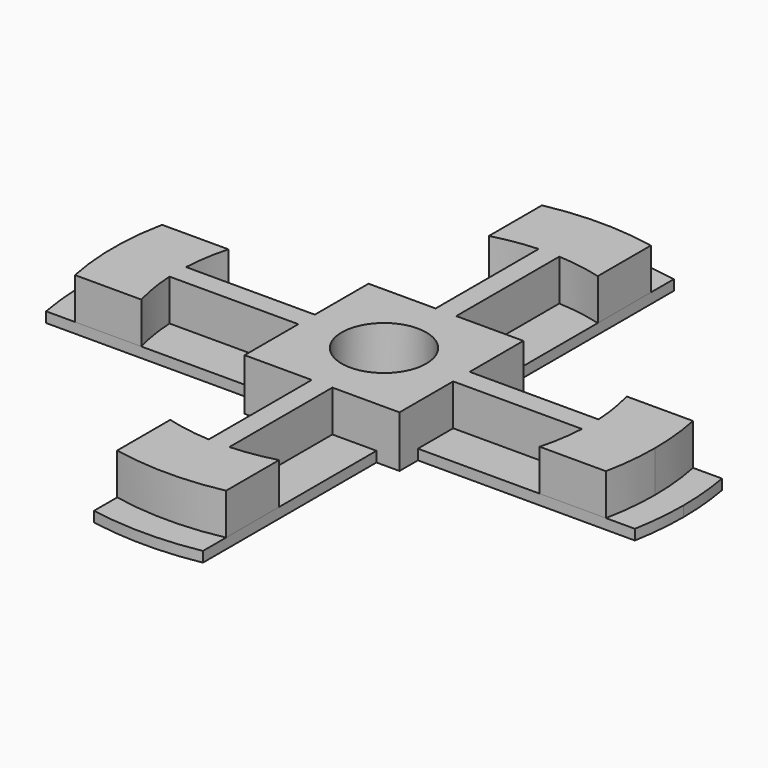
from build123d import *

# Parameters (mm, degrees)
F0_R     = 4.1
F0_W     = 2.2272727273
F0_H     = 2.2272727273
F1_DEPTH = 1
F2_DEPTH = 4


with BuildPart() as f1:
    # F0 (on Top) → F1 (new body)
    with BuildSketch(Plane.XY):
        with BuildLine():
            Line((5.2727272727, 19.292442746), (5.2727272727, 25.7149926523))
            ThreePointArc((5.2727272727, 25.7149926523), (0, 26.25), (-5.2727272727, 25.7149926523))
            Line((-5.2727272727, 25.7149926523), (-5.2727272727, 19.292442746))
            ThreePointArc((-5.2727272727, 19.292442746), (-3.1548760073, 19.7496014486), (-1, 19.9749843554))
            ThreePointArc((-1, 19.9749843554), (0, 20), (1, 19.9749843554))
            ThreePointArc((1, 19.9749843554), (3.1548760073, 19.7496014486), (5.2727272727, 19.292442746))
        make_face()
        with BuildLine():
            ThreePointArc((-25.7149926523, -5.2727272727), (-26.25, 0), (-25.7149926523, 5.2727272727))
            Line((-25.7149926523, 5.2727272727), (-28.516632815, 5.2727272727))
            ThreePointArc((-28.516632815, 5.2727272727), (-29, 0), (-28.516632815, -5.2727272727))
            Line((-28.516632815, -5.2727272727), (-25.7149926523, -5.2727272727))
        make_face()
        with BuildLine():
            ThreePointArc((-5.2727272727, 25.7149926523), (0, 26.25), (5.2727272727, 25.7149926523))
            Line((5.2727272727, 25.7149926523), (5.2727272727, 28.516632815))
            ThreePointArc((5.2727272727, 28.516632815), (0, 29), (-5.2727272727, 28.516632815))
            Line((-5.2727272727, 28.516632815), (-5.2727272727, 25.7149926523))
        make_face()
        with BuildLine():
            ThreePointArc((25.7149926523, 5.2727272727), (26.1159056623, 2.6499002696), (26.25, 0))
            ThreePointArc((26.25, 0), (26.1159056623, -2.6499002696), (25.7149926523, -5.2727272727))
            Line((25.7149926523, -5.2727272727), (28.516632815, -5.2727272727))
            ThreePointArc((28.516632815, -5.2727272727), (28.8789053778, -2.6474183995), (29, 0))
            ThreePointArc((29, 0), (28.8789053778, 2.6474183995), (28.516632815, 5.2727272727))
            Line((28.516632815, 5.2727272727), (25.7149926523, 5.2727272727))
        make_face()
        with BuildLine():
            Line((5.2727272727, -28.516632815), (5.2727272727, -25.7149926523))
            ThreePointArc((5.2727272727, -25.7149926523), (0, -26.25), (-5.2727272727, -25.7149926523))
            Line((-5.2727272727, -25.7149926523), (-5.2727272727, -28.516632815))
            ThreePointArc((-5.2727272727, -28.516632815), (0, -29), (5.2727272727, -28.516632815))
        make_face()
        with BuildLine():
            Line((-7.5, 5.2727272727), (-19.292442746, 5.2727272727))
            ThreePointArc((-19.292442746, 5.2727272727), (-19.7496014486, 3.1548760073), (-19.9749843554, 1))
            Line((-19.9749843554, 1), (-7.5, 1))
            Line((-7.5, 1), (-7.5, 5.2727272727))
        make_face()
        Polygon((7.5, 1), (7.5, 5.2727272727), (5.2727272727, 5.2727272727), (5.2727272727, 7.5), (1, 7.5), (-1, 7.5), (-5.2727272727, 7.5), (-5.2727272727, 5.2727272727), (-7.5, 5.2727272727), (-7.5, 1), (-7.5, -1), (-7.5, -5.2727272727), (-5.2727272727, -5.2727272727), (-5.2727272727, -7.5), (-1, -7.5), (1, -7.5), (5.2727272727, -7.5), (5.2727272727, -5.2727272727), (7.5, -5.2727272727), (7.5, -1), align=None)
        Circle(F0_R, mode=Mode.SUBTRACT)
        with BuildLine():
            ThreePointArc((-1, 19.9749843554), (-3.1548760073, 19.7496014486), (-5.2727272727, 19.292442746))
            Line((-5.2727272727, 19.292442746), (-5.2727272727, 7.5))
            Line((-5.2727272727, 7.5), (-1, 7.5))
            Line((-1, 7.5), (-1, 19.9749843554))
        make_face()
        with BuildLine():
            ThreePointArc((19.9749843554, 1), (19.7496014486, 3.1548760073), (19.292442746, 5.2727272727))
            Line((19.292442746, 5.2727272727), (7.5, 5.2727272727))
            Line((7.5, 5.2727272727), (7.5, 1))
            Line((7.5, 1), (19.9749843554, 1))
        make_face()
        with BuildLine():
            ThreePointArc((25.7149926523, -5.2727272727), (26.1159056623, -2.6499002696), (26.25, 0))
            ThreePointArc((26.25, 0), (26.1159056623, 2.6499002696), (25.7149926523, 5.2727272727))
            Line((25.7149926523, 5.2727272727), (19.292442746, 5.2727272727))
            ThreePointArc((19.292442746, 5.2727272727), (19.7496014486, 3.1548760073), (19.9749843554, 1))
            ThreePointArc((19.9749843554, 1), (19.9937451108, 0.5001564212), (20, 0))
            ThreePointArc((20, 0), (19.9937451108, -0.5001564212), (19.9749843554, -1))
            ThreePointArc((19.9749843554, -1), (19.7496014486, -3.1548760073), (19.292442746, -5.2727272727))
            Line((19.292442746, -5.2727272727), (25.7149926523, -5.2727272727))
        make_face()
        with BuildLine():
            Line((-5.2727272727, -7.5), (-5.2727272727, -19.292442746))
            ThreePointArc((-5.2727272727, -19.292442746), (-3.1548760073, -19.7496014486), (-1, -19.9749843554))
            Line((-1, -19.9749843554), (-1, -7.5))
            Line((-1, -7.5), (-5.2727272727, -7.5))
        make_face()
        with BuildLine():
            ThreePointArc((-5.2727272727, -25.7149926523), (0, -26.25), (5.2727272727, -25.7149926523))
            Line((5.2727272727, -25.7149926523), (5.2727272727, -19.292442746))
            ThreePointArc((5.2727272727, -19.292442746), (3.1548760073, -19.7496014486), (1, -19.9749843554))
            ThreePointArc((1, -19.9749843554), (0, -20), (-1, -19.9749843554))
            ThreePointArc((-1, -19.9749843554), (-3.1548760073, -19.7496014486), (-5.2727272727, -19.292442746))
            Line((-5.2727272727, -19.292442746), (-5.2727272727, -25.7149926523))
        make_face()
        with BuildLine():
            Line((-19.292442746, 5.2727272727), (-25.7149926523, 5.2727272727))
            ThreePointArc((-25.7149926523, 5.2727272727), (-26.25, 0), (-25.7149926523, -5.2727272727))
            Line((-25.7149926523, -5.2727272727), (-19.292442746, -5.2727272727))
            ThreePointArc((-19.292442746, -5.2727272727), (-19.7496014486, -3.1548760073), (-19.9749843554, -1))
            ThreePointArc((-19.9749843554, -1), (-20, 0), (-19.9749843554, 1))
            ThreePointArc((-19.9749843554, 1), (-19.7496014486, 3.1548760073), (-19.292442746, 5.2727272727))
        make_face()
        with Locations((-6.3863636364, 6.3863636364)):
            Rectangle(F0_W, F0_H)
        with Locations((-6.3863636364, -6.3863636364)):
            Rectangle(F0_W, F0_H)
        with Locations((6.3863636364, -6.3863636364)):
            Rectangle(F0_W, F0_H)
        with Locations((6.3863636364, 6.3863636364)):
            Rectangle(F0_W, F0_H)
        with BuildLine():
            ThreePointArc((20, 0), (19.9937451108, 0.5001564212), (19.9749843554, 1))
            Line((19.9749843554, 1), (7.5, 1))
            Line((7.5, 1), (7.5, -1))
            Line((7.5, -1), (19.9749843554, -1))
            ThreePointArc((19.9749843554, -1), (19.9937451108, -0.5001564212), (20, 0))
        make_face()
        with BuildLine():
            Line((7.5, -5.2727272727), (19.292442746, -5.2727272727))
            ThreePointArc((19.292442746, -5.2727272727), (19.7496014486, -3.1548760073), (19.9749843554, -1))
            Line((19.9749843554, -1), (7.5, -1))
            Line((7.5, -1), (7.5, -5.2727272727))
        make_face()
        with BuildLine():
            ThreePointArc((-19.9749843554, -1), (-19.7496014486, -3.1548760073), (-19.292442746, -5.2727272727))
            Line((-19.292442746, -5.2727272727), (-7.5, -5.2727272727))
            Line((-7.5, -5.2727272727), (-7.5, -1))
            Line((-7.5, -1), (-19.9749843554, -1))
        make_face()
        with BuildLine():
            Line((-7.5, 1), (-19.9749843554, 1))
            ThreePointArc((-19.9749843554, 1), (-20, 0), (-19.9749843554, -1))
            Line((-19.9749843554, -1), (-7.5, -1))
            Line((-7.5, -1), (-7.5, 1))
        make_face()
        with BuildLine():
            Line((1, 7.5), (1, 19.9749843554))
            ThreePointArc((1, 19.9749843554), (0, 20), (-1, 19.9749843554))
            Line((-1, 19.9749843554), (-1, 7.5))
            Line((-1, 7.5), (1, 7.5))
        make_face()
        with BuildLine():
            Line((5.2727272727, 7.5), (5.2727272727, 19.292442746))
            ThreePointArc((5.2727272727, 19.292442746), (3.1548760073, 19.7496014486), (1, 19.9749843554))
            Line((1, 19.9749843554), (1, 7.5))
            Line((1, 7.5), (5.2727272727, 7.5))
        make_face()
        with BuildLine():
            ThreePointArc((1, -19.9749843554), (3.1548760073, -19.7496014486), (5.2727272727, -19.292442746))
            Line((5.2727272727, -19.292442746), (5.2727272727, -7.5))
            Line((5.2727272727, -7.5), (1, -7.5))
            Line((1, -7.5), (1, -19.9749843554))
        make_face()
        with BuildLine():
            ThreePointArc((-1, -19.9749843554), (0, -20), (1, -19.9749843554))
            Line((1, -19.9749843554), (1, -7.5))
            Line((1, -7.5), (-1, -7.5))
            Line((-1, -7.5), (-1, -19.9749843554))
        make_face()
    extrude(amount=-F1_DEPTH)

    # F0 (on Top) → F2 (join)
    with BuildSketch(Plane.XY):
        with BuildLine():
            ThreePointArc((25.7149926523, -5.2727272727), (26.1159056623, -2.6499002696), (26.25, 0))
            ThreePointArc((26.25, 0), (26.1159056623, 2.6499002696), (25.7149926523, 5.2727272727))
            Line((25.7149926523, 5.2727272727), (19.292442746, 5.2727272727))
            ThreePointArc((19.292442746, 5.2727272727), (19.7496014486, 3.1548760073), (19.9749843554, 1))
            ThreePointArc((19.9749843554, 1), (19.9937451108, 0.5001564212), (20, 0))
            ThreePointArc((20, 0), (19.9937451108, -0.5001564212), (19.9749843554, -1))
            ThreePointArc((19.9749843554, -1), (19.7496014486, -3.1548760073), (19.292442746, -5.2727272727))
            Line((19.292442746, -5.2727272727), (25.7149926523, -5.2727272727))
        make_face()
        with BuildLine():
            Line((5.2727272727, 19.292442746), (5.2727272727, 25.7149926523))
            ThreePointArc((5.2727272727, 25.7149926523), (0, 26.25), (-5.2727272727, 25.7149926523))
            Line((-5.2727272727, 25.7149926523), (-5.2727272727, 19.292442746))
            ThreePointArc((-5.2727272727, 19.292442746), (-3.1548760073, 19.7496014486), (-1, 19.9749843554))
            ThreePointArc((-1, 19.9749843554), (0, 20), (1, 19.9749843554))
            ThreePointArc((1, 19.9749843554), (3.1548760073, 19.7496014486), (5.2727272727, 19.292442746))
        make_face()
        with BuildLine():
            Line((-19.292442746, 5.2727272727), (-25.7149926523, 5.2727272727))
            ThreePointArc((-25.7149926523, 5.2727272727), (-26.25, 0), (-25.7149926523, -5.2727272727))
            Line((-25.7149926523, -5.2727272727), (-19.292442746, -5.2727272727))
            ThreePointArc((-19.292442746, -5.2727272727), (-19.7496014486, -3.1548760073), (-19.9749843554, -1))
            ThreePointArc((-19.9749843554, -1), (-20, 0), (-19.9749843554, 1))
            ThreePointArc((-19.9749843554, 1), (-19.7496014486, 3.1548760073), (-19.292442746, 5.2727272727))
        make_face()
        with BuildLine():
            ThreePointArc((-5.2727272727, -25.7149926523), (0, -26.25), (5.2727272727, -25.7149926523))
            Line((5.2727272727, -25.7149926523), (5.2727272727, -19.292442746))
            ThreePointArc((5.2727272727, -19.292442746), (3.1548760073, -19.7496014486), (1, -19.9749843554))
            ThreePointArc((1, -19.9749843554), (0, -20), (-1, -19.9749843554))
            ThreePointArc((-1, -19.9749843554), (-3.1548760073, -19.7496014486), (-5.2727272727, -19.292442746))
            Line((-5.2727272727, -19.292442746), (-5.2727272727, -25.7149926523))
        make_face()
        with BuildLine():
            Line((1, 7.5), (1, 19.9749843554))
            ThreePointArc((1, 19.9749843554), (0, 20), (-1, 19.9749843554))
            Line((-1, 19.9749843554), (-1, 7.5))
            Line((-1, 7.5), (1, 7.5))
        make_face()
        with BuildLine():
            Line((-7.5, 1), (-19.9749843554, 1))
            ThreePointArc((-19.9749843554, 1), (-20, 0), (-19.9749843554, -1))
            Line((-19.9749843554, -1), (-7.5, -1))
            Line((-7.5, -1), (-7.5, 1))
        make_face()
        with BuildLine():
            ThreePointArc((20, 0), (19.9937451108, 0.5001564212), (19.9749843554, 1))
            Line((19.9749843554, 1), (7.5, 1))
            Line((7.5, 1), (7.5, -1))
            Line((7.5, -1), (19.9749843554, -1))
            ThreePointArc((19.9749843554, -1), (19.9937451108, -0.5001564212), (20, 0))
        make_face()
        with BuildLine():
            ThreePointArc((-1, -19.9749843554), (0, -20), (1, -19.9749843554))
            Line((1, -19.9749843554), (1, -7.5))
            Line((1, -7.5), (-1, -7.5))
            Line((-1, -7.5), (-1, -19.9749843554))
        make_face()
        Polygon((7.5, 1), (7.5, 5.2727272727), (5.2727272727, 5.2727272727), (5.2727272727, 7.5), (1, 7.5), (-1, 7.5), (-5.2727272727, 7.5), (-5.2727272727, 5.2727272727), (-7.5, 5.2727272727), (-7.5, 1), (-7.5, -1), (-7.5, -5.2727272727), (-5.2727272727, -5.2727272727), (-5.2727272727, -7.5), (-1, -7.5), (1, -7.5), (5.2727272727, -7.5), (5.2727272727, -5.2727272727), (7.5, -5.2727272727), (7.5, -1), align=None)
        Circle(F0_R, mode=Mode.SUBTRACT)
        with Locations((-6.3863636364, 6.3863636364)):
            Rectangle(F0_W, F0_H)
        with Locations((-6.3863636364, -6.3863636364)):
            Rectangle(F0_W, F0_H)
        with Locations((6.3863636364, -6.3863636364)):
            Rectangle(F0_W, F0_H)
        with Locations((6.3863636364, 6.3863636364)):
            Rectangle(F0_W, F0_H)
    extrude(amount=F2_DEPTH)


solid = f1.part
